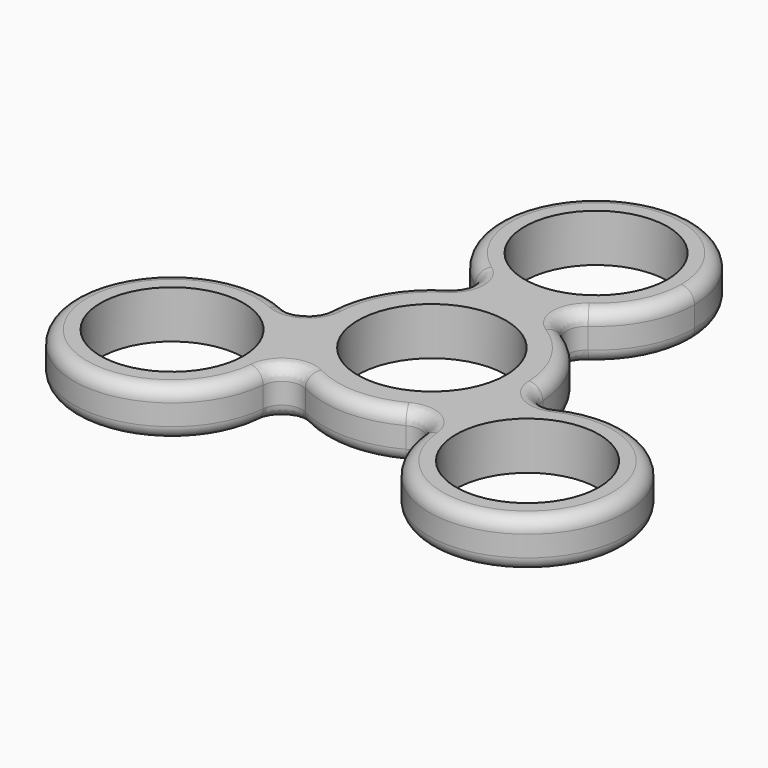
from build123d import *

# Parameters (mm, degrees)
F0_R     = 11
F0_R_2   = 10.625
F1_DEPTH = 7.1
F2_R     = 3
F3_R     = 2


with BuildPart() as f1:
    # F0 (on Top) → F1 (new body)
    with BuildSketch(Plane.XY):
        with BuildLine():
            ThreePointArc((14.4950594295, -6.7744558552), (15.6192341501, -3.4698018047), (16, 0))
            ThreePointArc((16, 0), (11.7917526593, 10.814553584), (1.3806788473, 15.940317623))
            ThreePointArc((1.3806788473, 15.940317623), (0, 15.875), (-1.3806788473, 15.940317623))
            ThreePointArc((-1.3806788473, 15.940317623), (-13.8564064606, 8), (-14.4950594295, -6.7744558552))
            ThreePointArc((-14.4950594295, -6.7744558552), (-13.7481532851, -7.9375), (-13.1143805822, -9.1658617677))
            ThreePointArc((-13.1143805822, -9.1658617677), (0, -16), (13.1143805822, -9.1658617677))
            ThreePointArc((13.1143805822, -9.1658617677), (13.7481532851, -7.9375), (14.4950594295, -6.7744558552))
        make_face()
        Circle(F0_R, mode=Mode.SUBTRACT)
        with BuildLine():
            ThreePointArc((-1.3806788473, 15.940317623), (0, 15.875), (1.3806788473, 15.940317623))
            ThreePointArc((1.3806788473, 15.940317623), (0, 16), (-1.3806788473, 15.940317623))
        make_face()
        with BuildLine():
            ThreePointArc((-1.3806788473, 15.940317623), (0, 16), (1.3806788473, 15.940317623))
            ThreePointArc((1.3806788473, 15.940317623), (10.8185732225, 20.6588060466), (14.625, 30.5))
            ThreePointArc((14.625, 30.5), (-9.8411939534, 41.3185732225), (-1.3806788473, 15.940317623))
        make_face()
        with Locations((0, 30.5)):
            Circle(F0_R_2, mode=Mode.SUBTRACT)
        with BuildLine():
            ThreePointArc((41.0387748154, -15.25), (30.8623370821, -1.3179894215), (14.4950594295, -6.7744558552))
            ThreePointArc((14.4950594295, -6.7744558552), (13.8564064606, -8), (13.1143805822, -9.1658617677))
            ThreePointArc((13.1143805822, -9.1658617677), (23.3003374594, -29.5397562201), (41.0387748154, -15.25))
        make_face()
        with Locations((26.4137748154, -15.25)):
            Circle(F0_R_2, mode=Mode.SUBTRACT)
        with BuildLine():
            ThreePointArc((13.1143805822, -9.1658617677), (13.8564064606, -8), (14.4950594295, -6.7744558552))
            ThreePointArc((14.4950594295, -6.7744558552), (13.7481532851, -7.9375), (13.1143805822, -9.1658617677))
        make_face()
        with BuildLine():
            ThreePointArc((-13.1143805822, -9.1658617677), (-13.7481532851, -7.9375), (-14.4950594295, -6.7744558552))
            ThreePointArc((-14.4950594295, -6.7744558552), (-13.8564064606, -8), (-13.1143805822, -9.1658617677))
        make_face()
        with BuildLine():
            ThreePointArc((-13.1143805822, -9.1658617677), (-13.8564064606, -8), (-14.4950594295, -6.7744558552))
            ThreePointArc((-14.4950594295, -6.7744558552), (-40.3457853939, -19.6985622667), (-11.7887748154, -15.25))
            ThreePointArc((-11.7887748154, -15.25), (-12.1240185953, -12.136562644), (-13.1143805822, -9.1658617677))
        make_face()
        with Locations((-26.4137748154, -15.25)):
            Circle(F0_R_2, mode=Mode.SUBTRACT)
    extrude(amount=F1_DEPTH)

    # F2
    f2_edges = [f1.edges().sort_by_distance(p)[0] for p in [
        (-13.114381, -9.165862, 3.55),
        (13.114381, -9.165862, 3.55),
        (14.495059, -6.774456, 3.55),
        (-1.380679, 15.940318, 3.55),
        (1.380679, 15.940318, 3.55),
        (-14.495059, -6.774456, 3.55),
    ]]
    fillet(f2_edges, radius=F2_R)

    # F3
    f3_edges = [f1.edges().sort_by_distance(p)[0] for p in [
        (39.079396, -22.5625, 7.1),
        (10.292491, -14.174152, 0),
    ]]
    fillet(f3_edges, radius=F3_R)


solid = f1.part
